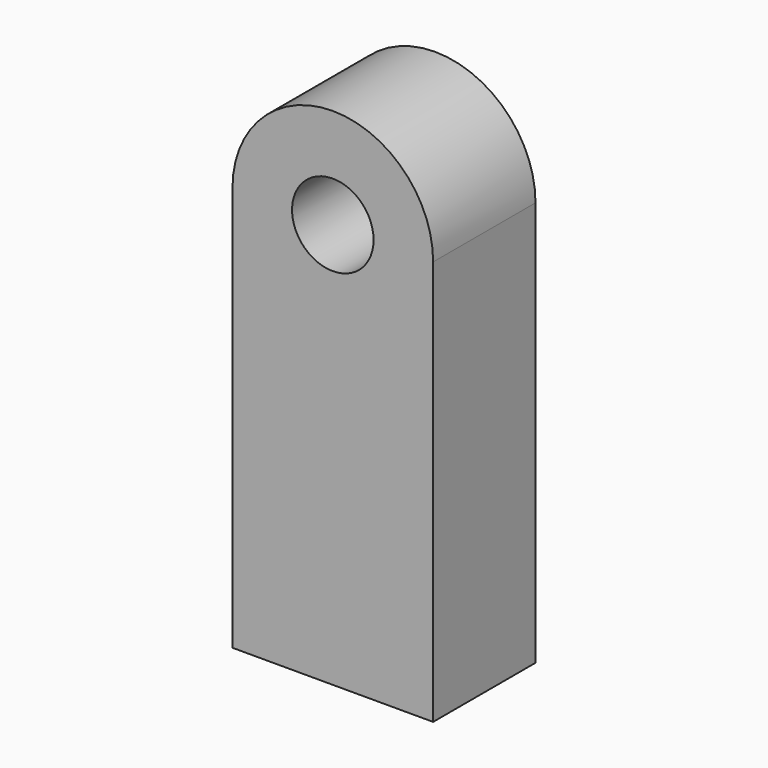
from build123d import *

# Parameters (mm, degrees)
F0_R     = 10.111087
F1_DEPTH = 31.75


with BuildPart() as f1:
    # F0 (on Front) → F1 (new body)
    with BuildSketch(Plane.XZ):
        with BuildLine():
            Line((-24.888607, 50.235286), (-24.888607, -50.235286))
            Line((-24.888607, -50.235286), (24.888607, -50.235286))
            Line((24.888607, -50.235286), (24.888607, 50.235286))
            ThreePointArc((24.888607, 50.235286), (0, 25.34668), (-24.888607, 50.235286))
        make_face()
        with BuildLine():
            ThreePointArc((24.888607, 50.235286), (0, 75.123893), (-24.888607, 50.235286))
            ThreePointArc((-24.888607, 50.235286), (0, 25.34668), (24.888607, 50.235286))
        make_face()
        with Locations((0, 50.235286)):
            Circle(F0_R, mode=Mode.SUBTRACT)
    extrude(amount=F1_DEPTH)


solid = f1.part
